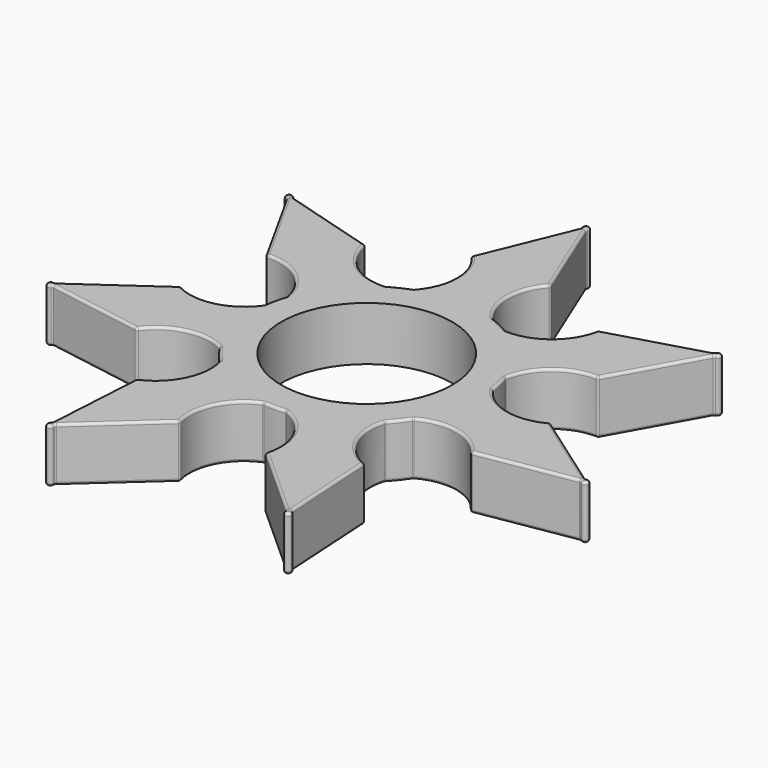
from build123d import *

# Parameters (mm, degrees)
F0_R     = 11.1
F1_DEPTH = 7
F2_R     = 0.34


with BuildPart() as f1:
    # F0 (on Top) → F1 (new body)
    with BuildSketch(Plane.XY):
        with BuildLine():
            ThreePointArc((12.5833280432, -8.1645486929), (14.3831484844, -4.2573512512), (15, 0))
            ThreePointArc((15, 0), (14.9698826991, 0.9500589328), (14.8796517366, 1.8963027709))
            ThreePointArc((14.8796517366, 1.8963027709), (14.6239186827, 3.3378140093), (14.2288779166, 4.7475291716))
            ThreePointArc((14.2288779166, 4.7475291716), (11.727472237, 9.3523470279), (7.7947219064, 12.8157056147))
            ThreePointArc((7.7947219064, 12.8157056147), (6.5082560868, 13.5145330185), (5.1597925026, 14.0846207379))
            ThreePointArc((5.1597925026, 14.0846207379), (0, 15), (-5.1597925026, 14.0846207379))
            ThreePointArc((-5.1597925026, 14.0846207379), (-6.5082560868, 13.5145330185), (-7.7947219064, 12.8157056147))
            ThreePointArc((-7.7947219064, 12.8157056147), (-11.727472237, 9.3523470279), (-14.2288779166, 4.7475291716))
            ThreePointArc((-14.2288779166, 4.7475291716), (-14.6239186827, 3.3378140093), (-14.8796517366, 1.8963027709))
            ThreePointArc((-14.8796517366, 1.8963027709), (-14.6239186827, -3.3378140093), (-12.5833280432, -8.1645486929))
            ThreePointArc((-12.5833280432, -8.1645486929), (-11.727472237, -9.3523470279), (-10.7599003195, -10.4510547369))
            ThreePointArc((-10.7599003195, -10.4510547369), (-6.5082560868, -13.5145330185), (-1.4622755001, -14.9285548651))
            ThreePointArc((-1.4622755001, -14.9285548651), (0, -15), (1.4622755001, -14.9285548651))
            ThreePointArc((1.4622755001, -14.9285548651), (6.5082560868, -13.5145330185), (10.7599003195, -10.4510547369))
            ThreePointArc((10.7599003195, -10.4510547369), (11.727472237, -9.3523470279), (12.5833280432, -8.1645486929))
        make_face()
        Circle(F0_R, mode=Mode.SUBTRACT)
        with BuildLine():
            ThreePointArc((14.8796517366, 1.8963027709), (14.9698826991, 0.9500589328), (15, 0))
            ThreePointArc((15, 0), (14.3831484844, -4.2573512512), (12.5833280432, -8.1645486929))
            ThreePointArc((12.5833280432, -8.1645486929), (17.5390517236, -7.459944788), (21.6982883008, -10.244978891))
            Line((21.6982883008, -10.244978891), (34.3249010973, -8.1395641581))
            Line((34.3249010973, -8.1395641581), (35.0974048385, -8.0107536224))
            Line((35.0974048385, -8.0107536224), (34.4431609949, -7.5495613732))
            Line((34.4431609949, -7.5495613732), (23.9946119942, -0.1841274273))
            ThreePointArc((23.9946119942, -0.1841274273), (19.0388883138, -0.8887313322), (14.8796517366, 1.8963027709))
        make_face()
        with BuildLine():
            ThreePointArc((7.7947219064, 12.8157056147), (11.727472237, 9.3523470279), (14.2288779166, 4.7475291716))
            ThreePointArc((14.2288779166, 4.7475291716), (16.7678395767, 9.0613833124), (21.5385085076, 10.5767650504))
            Line((21.5385085076, 10.5767650504), (27.7649932963, 21.7613530663))
            Line((27.7649932963, 21.7613530663), (28.1459333688, 22.4456328669))
            Line((28.1459333688, 22.4456328669), (27.3774443845, 22.2216730969))
            Line((27.3774443845, 22.2216730969), (15.1043524974, 18.6449414935))
            ThreePointArc((15.1043524974, 18.6449414935), (12.5653908373, 14.3310873527), (7.7947219064, 12.8157056147))
        make_face()
        with BuildLine():
            ThreePointArc((14.8164392585, -18.8745446399), (11.1757145674, -15.4393171971), (10.7599003195, -10.4510547369))
            ThreePointArc((10.7599003195, -10.4510547369), (6.5082560868, -13.5145330185), (1.4622755001, -14.9285548651))
            ThreePointArc((1.4622755001, -14.9285548651), (5.1030001912, -18.3637823079), (5.5188144391, -23.3520447681))
            Line((5.5188144391, -23.3520447681), (15.0374582716, -31.9112235546))
            Line((15.0374582716, -31.9112235546), (15.6198146082, -32.4348792445))
            Line((15.6198146082, -32.4348792445), (15.5724748637, -31.6358221463))
            Line((15.5724748637, -31.6358221463), (14.8164392585, -18.8745446399))
        make_face()
        with BuildLine():
            ThreePointArc((34.3249010973, -8.1395641581), (35.1220561142, -7.9924921844), (34.4431609949, -7.5495613732))
            Line((34.4431609949, -7.5495613732), (35.0974048385, -8.0107536224))
            Line((35.0974048385, -8.0107536224), (34.3249010973, -8.1395641581))
        make_face()
        with BuildLine():
            ThreePointArc((-5.1597925026, 14.0846207379), (0, 15), (5.1597925026, 14.0846207379))
            ThreePointArc((5.1597925026, 14.0846207379), (3.3701022269, 18.7593049601), (5.1597925026, 23.4339891822))
            Line((5.1597925026, 23.4339891822), (0.2974792406, 35.2755275811))
            ThreePointArc((0.2974792406, 35.2755275811), (-0.0232890106, 36.0199696644), (-0.3040462455, 35.2595344855))
            Line((-0.3040462455, 35.2595344855), (-5.1597925026, 23.4339891822))
            ThreePointArc((-5.1597925026, 23.4339891822), (-3.3701022269, 18.7593049601), (-5.1597925026, 14.0846207379))
        make_face()
        with BuildLine():
            Line((28.1459333688, 22.4456328669), (27.7649932963, 21.7613530663))
            ThreePointArc((27.7649932963, 21.7613530663), (28.1470258206, 22.4762918307), (27.3774443845, 22.2216730969))
            Line((27.3774443845, 22.2216730969), (28.1459333688, 22.4456328669))
        make_face()
        with BuildLine():
            ThreePointArc((-5.5188144391, -23.3520447681), (-5.1030001912, -18.3637823079), (-1.4622755001, -14.9285548651))
            ThreePointArc((-1.4622755001, -14.9285548651), (-6.5082560868, -13.5145330185), (-10.7599003195, -10.4510547369))
            ThreePointArc((-10.7599003195, -10.4510547369), (-11.1757145674, -15.4393171971), (-14.8164392585, -18.8745446399))
            Line((-14.8164392585, -18.8745446399), (-15.5734973409, -31.6530807442))
            Line((-15.5734973409, -31.6530807442), (-15.6198146082, -32.4348792445))
            Line((-15.6198146082, -32.4348792445), (-15.0246024605, -31.89966359))
            Line((-15.0246024605, -31.89966359), (-5.5188144391, -23.3520447681))
        make_face()
        with BuildLine():
            ThreePointArc((15.0374582716, -31.9112235546), (15.6494617944, -32.4427665675), (15.5724748637, -31.6358221463))
            Line((15.5724748637, -31.6358221463), (15.6198146082, -32.4348792445))
            Line((15.6198146082, -32.4348792445), (15.0374582716, -31.9112235546))
        make_face()
        with BuildLine():
            ThreePointArc((-14.2288779166, 4.7475291716), (-11.727472237, 9.3523470279), (-7.7947219064, 12.8157056147))
            ThreePointArc((-7.7947219064, 12.8157056147), (-12.5653908373, 14.3310873527), (-15.1043524974, 18.6449414935))
            Line((-15.1043524974, 18.6449414935), (-27.3940427508, 22.2265103377))
            Line((-27.3940427508, 22.2265103377), (-28.1459333688, 22.4456328669))
            Line((-28.1459333688, 22.4456328669), (-27.7565838513, 21.7462472431))
            Line((-27.7565838513, 21.7462472431), (-21.5385085076, 10.5767650504))
            ThreePointArc((-21.5385085076, 10.5767650504), (-16.7678395767, 9.0613833124), (-14.2288779166, 4.7475291716))
        make_face()
        with BuildLine():
            ThreePointArc((-21.6982883008, -10.244978891), (-17.5390517236, -7.459944788), (-12.5833280432, -8.1645486929))
            ThreePointArc((-12.5833280432, -8.1645486929), (-14.6239186827, -3.3378140093), (-14.8796517366, 1.8963027709))
            ThreePointArc((-14.8796517366, 1.8963027709), (-19.0388883138, -0.8887313322), (-23.9946119942, -0.1841274273))
            Line((-23.9946119942, -0.1841274273), (-34.4572918142, -7.5595225282))
            Line((-34.4572918142, -7.5595225282), (-35.0974048385, -8.0107536224))
            Line((-35.0974048385, -8.0107536224), (-34.3078476859, -8.1424077159))
            Line((-34.3078476859, -8.1424077159), (-21.6982883008, -10.244978891))
        make_face()
        with BuildLine():
            ThreePointArc((-15.5734973409, -31.6530807442), (-15.6074964474, -32.4629760134), (-15.0246024605, -31.89966359))
            Line((-15.0246024605, -31.89966359), (-15.6198146082, -32.4348792445))
            Line((-15.6198146082, -32.4348792445), (-15.5734973409, -31.6530807442))
        make_face()
        with BuildLine():
            Line((-28.1459333688, 22.4456328669), (-27.3940427508, 22.2265103377))
            ThreePointArc((-27.3940427508, 22.2265103377), (-28.1760667418, 22.4398756674), (-27.7565838513, 21.7462472431))
            Line((-27.7565838513, 21.7462472431), (-28.1459333688, 22.4456328669))
        make_face()
        with BuildLine():
            ThreePointArc((-34.4572918142, -7.5595225282), (-35.1116915294, -8.0379023972), (-34.3078476859, -8.1424077159))
            Line((-34.3078476859, -8.1424077159), (-35.0974048385, -8.0107536224))
            Line((-35.0974048385, -8.0107536224), (-34.4572918142, -7.5595225282))
        make_face()
    extrude(amount=F1_DEPTH)

    # F2
    f2_edges = [f1.edges().sort_by_distance(p)[0] for p in [
        (2.728636, 29.354758, 7),
        (16.76784, 9.061383, 7),
        (-6.508256, 13.514533, 7),
        (-3.370102, 18.759305, 7),
        (3.370102, 18.759305, 7),
        (21.240898, 20.433307, 7),
        (12.565391, 14.331087, 7),
        (6.508256, 13.514533, 7),
        (-2.731919, 29.346762, 7),
        (21.240898, 20.433307, 0),
        (-5.159793, 23.433989, 3.5),
        (3.370102, 18.759305, 0),
        (15.104352, 18.644941, 3.5),
        (2.728636, 29.354758, 0),
        (7.794722, 12.815706, 3.5),
        (21.538509, 10.576765, 3.5),
        (-6.508256, 13.514533, 0),
        (-7.794722, 12.815706, 3.5),
        (-3.370102, 18.759305, 0),
        (12.565391, 14.331087, 0),
        (5.159793, 23.433989, 3.5),
        (5.159793, 14.084621, 3.5),
        (-5.159793, 14.084621, 3.5),
        (6.508256, 13.514533, 0),
        (-2.731919, 29.346762, 0),
        (16.76784, 9.061383, 0),
        (-12.565391, 14.331087, 7),
        (-16.76784, 9.061383, 7),
        (-21.249198, 20.435726, 7),
        (-14.623919, 3.337814, 7),
        (-19.038888, -0.888731, 7),
        (-24.647546, 16.161506, 7),
        (-23.994612, -0.184127, 3.5),
        (-21.249198, 20.435726, 0),
        (-15.104352, 18.644941, 3.5),
        (-14.623919, 3.337814, 0),
        (-19.038888, -0.888731, 0),
        (-24.647546, 16.161506, 0),
        (-16.76784, 9.061383, 0),
        (-14.228878, 4.747529, 3.5),
        (-12.565391, 14.331087, 0),
        (-14.879652, 1.896303, 3.5),
        (-21.538509, 10.576765, 3.5),
        (-29.225952, -3.871825, 0),
        (-29.225952, -3.871825, 7),
        (24.651751, 16.169059, 7),
        (24.651751, 16.169059, 0),
        (19.038888, -0.888731, 7),
        (17.539052, -7.459945, 7),
        (11.175715, -15.439317, 7),
        (11.727472, -9.352347, 7),
        (14.623919, 3.337814, 7),
        (19.038888, -0.888731, 0),
        (11.175715, -15.439317, 0),
        (14.816439, -18.874545, 3.5),
        (14.623919, 3.337814, 0),
        (11.727472, -9.352347, 0),
        (14.879652, 1.896303, 3.5),
        (12.583328, -8.164549, 3.5),
        (21.698288, -10.244979, 3.5),
        (23.994612, -0.184127, 3.5),
        (17.539052, -7.459945, 0),
        (10.7599, -10.451055, 3.5),
        (14.228878, 4.747529, 3.5),
        (28.011595, -9.192272, 7),
        (29.218886, -3.866844, 7),
        (29.218886, -3.866844, 0),
        (28.011595, -9.192272, 0),
        (0, -15, 7),
        (-5.103, -18.363782, 0),
        (-17.539052, -7.459945, 7),
        (-11.175715, -15.439317, 7),
        (-5.103, -18.363782, 7),
        (0, -15, 0),
        (-17.539052, -7.459945, 0),
        (5.103, -18.363782, 0),
        (5.103, -18.363782, 7),
        (-11.175715, -15.439317, 0),
        (-11.727472, -9.352347, 7),
        (-12.583328, -8.164549, 3.5),
        (-14.816439, -18.874545, 3.5),
        (-11.727472, -9.352347, 0),
        (-5.518814, -23.352045, 3.5),
        (5.518814, -23.352045, 3.5),
        (-21.698288, -10.244979, 3.5),
        (-10.7599, -10.451055, 3.5),
        (-1.462276, -14.928555, 3.5),
        (1.462276, -14.928555, 3.5),
        (15.194457, -25.255183, 7),
        (15.194457, -25.255183, 0),
        (10.278136, -27.631634, 7),
        (10.278136, -27.631634, 0),
        (-10.271708, -27.625854, 7),
        (-10.271708, -27.625854, 0),
        (-15.194968, -25.263813, 7),
        (-15.194968, -25.263813, 0),
        (-28.003068, -9.193693, 7),
        (-28.003068, -9.193693, 0),
        (-34.457292, -7.559523, 3.5),
        (-34.307848, -8.142408, 3.5),
        (-35.111692, -8.037902, 0),
        (-35.111692, -8.037902, 7),
        (-27.394043, 22.22651, 3.5),
        (-27.756584, 21.746247, 3.5),
        (-0.304046, 35.259534, 3.5),
        (-28.176067, 22.439876, 0),
        (-28.176067, 22.439876, 7),
        (0.297479, 35.275528, 3.5),
        (27.764993, 21.761353, 3.5),
        (27.377444, 22.221673, 3.5),
        (28.147026, 22.476292, 0),
        (28.147026, 22.476292, 7),
        (34.324901, -8.139564, 3.5),
        (34.443161, -7.549561, 3.5),
        (15.572475, -31.635822, 3.5),
        (15.037458, -31.911224, 3.5),
        (-15.024602, -31.899664, 3.5),
        (-15.573497, -31.653081, 3.5),
        (35.122056, -7.992492, 7),
        (-0.023289, 36.01997, 7),
        (35.122056, -7.992492, 0),
        (-0.023289, 36.01997, 0),
        (-15.607496, -32.462976, 7),
        (15.649462, -32.442767, 7),
        (-15.607496, -32.462976, 0),
        (15.649462, -32.442767, 0),
    ]]
    fillet(f2_edges, radius=F2_R)


solid = f1.part
